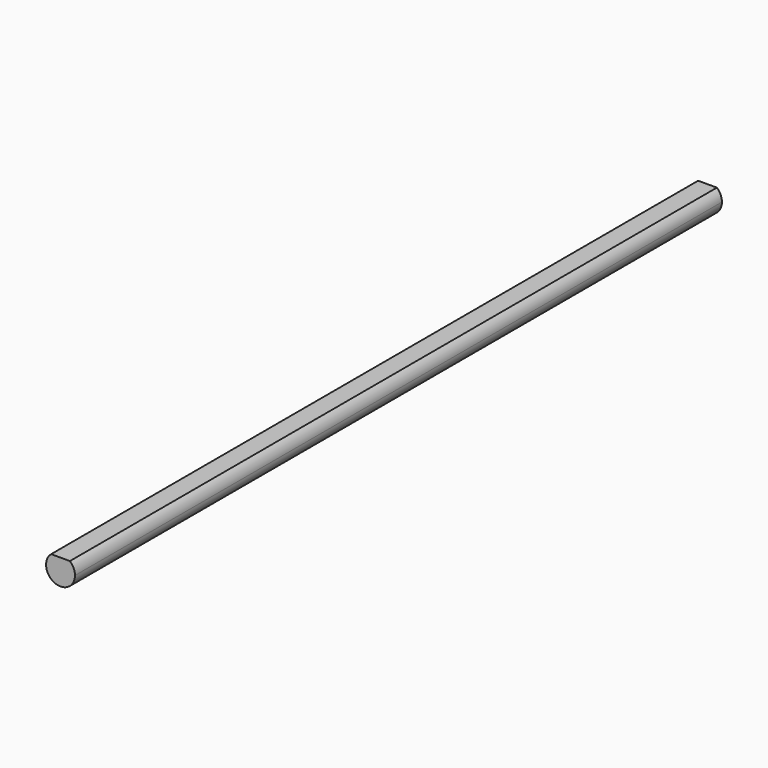
from build123d import *

# Parameters (mm, degrees)
F1_DEPTH = 177.8


with BuildPart() as f1:
    # F0 (on Front) → F1 (new body)
    with BuildSketch(Plane.XZ):
        with BuildLine():
            ThreePointArc((-2.063506, 2.413), (-1.328344, -2.88377), (3.175, 0))
            ThreePointArc((3.175, 0), (2.88377, 1.328344), (2.063506, 2.413))
            Line((2.063506, 2.413), (-2.063506, 2.413))
        make_face()
    extrude(amount=F1_DEPTH)


solid = f1.part
